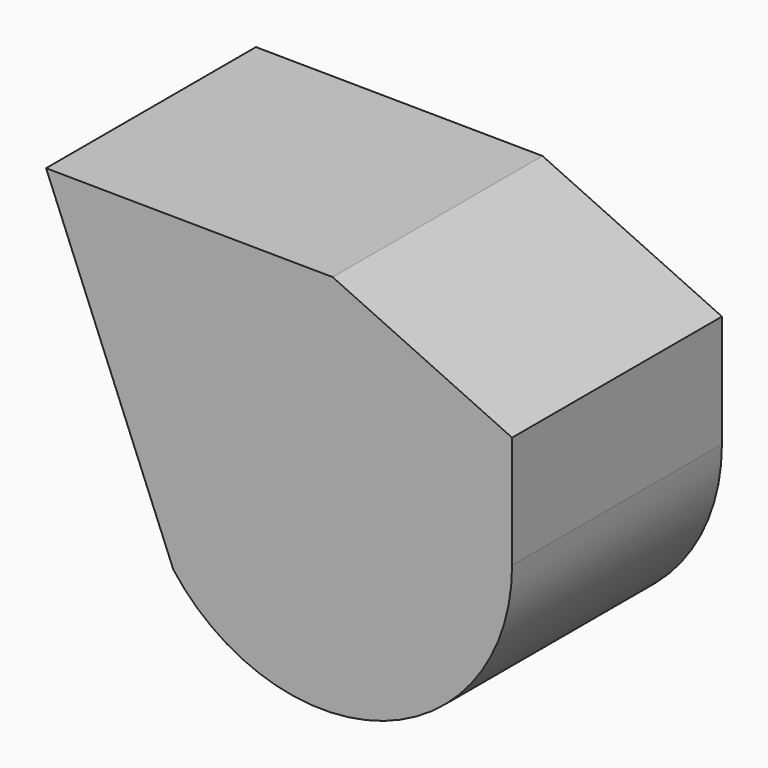
from build123d import *

# Parameters (mm, degrees)
F1_DEPTH = 40.64


with BuildPart() as f1:
    # F0 (on Front) → F1 (new body)
    with BuildSketch(Plane.XZ):
        with BuildLine():
            Line((39.001942, 35.060219), (11.202678, 47.922559))
            Line((11.202678, 47.922559), (-33.193156, 48.337474))
            Line((-33.193156, 48.337474), (-13.484731, 0))
            ThreePointArc((-13.484731, 0), (19.097619, -10.051026), (39.001942, 17.633818))
            Line((39.001942, 17.633818), (39.001942, 35.060219))
        make_face()
        with BuildLine():
            Line((39.001942, 35.060219), (11.202678, 47.922559))
            Line((11.202678, 47.922559), (-33.193156, 48.337474))
            Line((-33.193156, 48.337474), (-13.484731, 0))
            ThreePointArc((-13.484731, 0), (19.097619, -10.051026), (39.001942, 17.633818))
            Line((39.001942, 17.633818), (39.001942, 35.060219))
        make_face()
    extrude(amount=F1_DEPTH)


solid = f1.part
